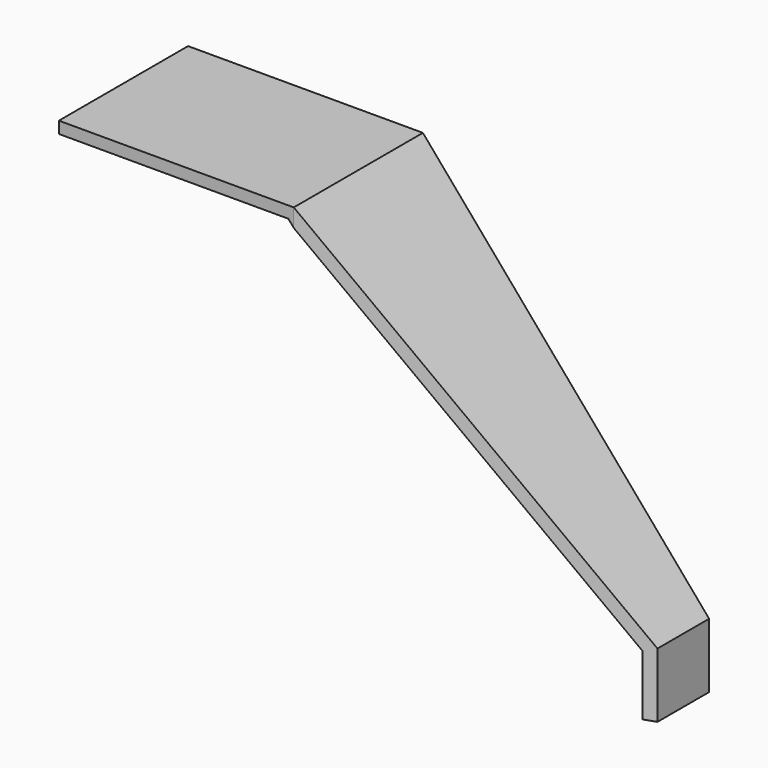
from build123d import *

# Parameters (mm, degrees)
F1_DEPTH = 55
F3_DEPTH = 150


with BuildPart() as f1:
    # F0 (on Front) → F1 (new body)
    with BuildSketch(Plane.XZ):
        Polygon((80, 0), (0, 0), (0, -4), (78.15749, -4), (173.488461, -115.477098), (173.488461, -136), (177.488461, -136), (177.488461, -114), align=None)
    extrude(amount=F1_DEPTH)

    # F2 (on Top) → F3 (cut)
    with BuildSketch(Plane.XY):
        Polygon((177.488461, -22), (80, -55), (177.488461, -55), align=None)
    extrude(amount=-F3_DEPTH, mode=Mode.SUBTRACT)


solid = f1.part
